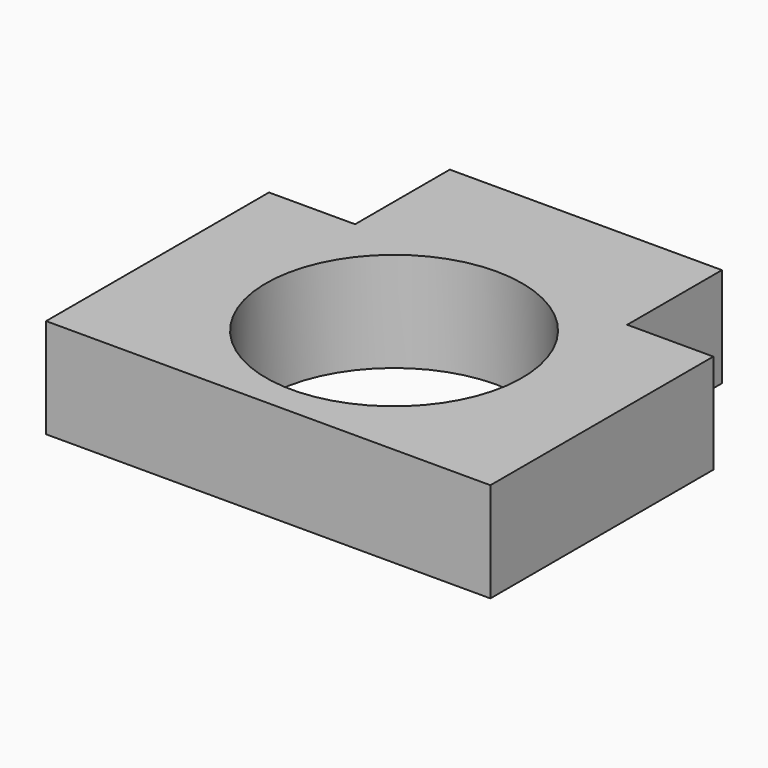
from build123d import *

# Parameters (mm, degrees)
F1_DEPTH = 25.4
F2_DEPTH = 25.4


with BuildPart() as f1:
    # F0 (on Top) → F1 (new body)
    with BuildSketch(Plane.XY):
        Polygon((-34.6818976104, 30.9372004122), (-56.627497077, 30.9372004122), (-56.627497077, -40.0811992586), (0, -40.0811992586), (56.627497077, -40.0811992586), (56.627497077, 30.9372004122), (34.6818976104, 30.9372004122), (34.6818976104, 61.1124001443), (0, 61.1124001443), (-34.6818976104, 61.1124001443), align=None)
        with BuildLine():
            ThreePointArc((0, -32.6451188582), (-32.6451188582, 0), (0, 32.6451188582))
            ThreePointArc((0, 32.6451188582), (32.6451188582, 0), (0, -32.6451188582))
        make_face(mode=Mode.SUBTRACT)
        Polygon((-34.6818976104, 30.9372004122), (-56.627497077, 30.9372004122), (-56.627497077, -40.0811992586), (0, -40.0811992586), (56.627497077, -40.0811992586), (56.627497077, 30.9372004122), (34.6818976104, 30.9372004122), (34.6818976104, 61.1124001443), (0, 61.1124001443), (-34.6818976104, 61.1124001443), align=None)
        with BuildLine():
            ThreePointArc((0, -32.6451188582), (-32.6451188582, 0), (0, 32.6451188582))
            ThreePointArc((0, 32.6451188582), (32.6451188582, 0), (0, -32.6451188582))
        make_face(mode=Mode.SUBTRACT)
    extrude(amount=F1_DEPTH)

    # F0 (on Top) → F2 (join)
    with BuildSketch(Plane.XY):
        Polygon((-34.6818976104, 30.9372004122), (-56.627497077, 30.9372004122), (-56.627497077, -40.0811992586), (0, -40.0811992586), (56.627497077, -40.0811992586), (56.627497077, 30.9372004122), (34.6818976104, 30.9372004122), (34.6818976104, 61.1124001443), (0, 61.1124001443), (-34.6818976104, 61.1124001443), align=None)
        with BuildLine():
            ThreePointArc((0, -32.6451188582), (-32.6451188582, 0), (0, 32.6451188582))
            ThreePointArc((0, 32.6451188582), (32.6451188582, 0), (0, -32.6451188582))
        make_face(mode=Mode.SUBTRACT)
    extrude(amount=F2_DEPTH)


solid = f1.part
